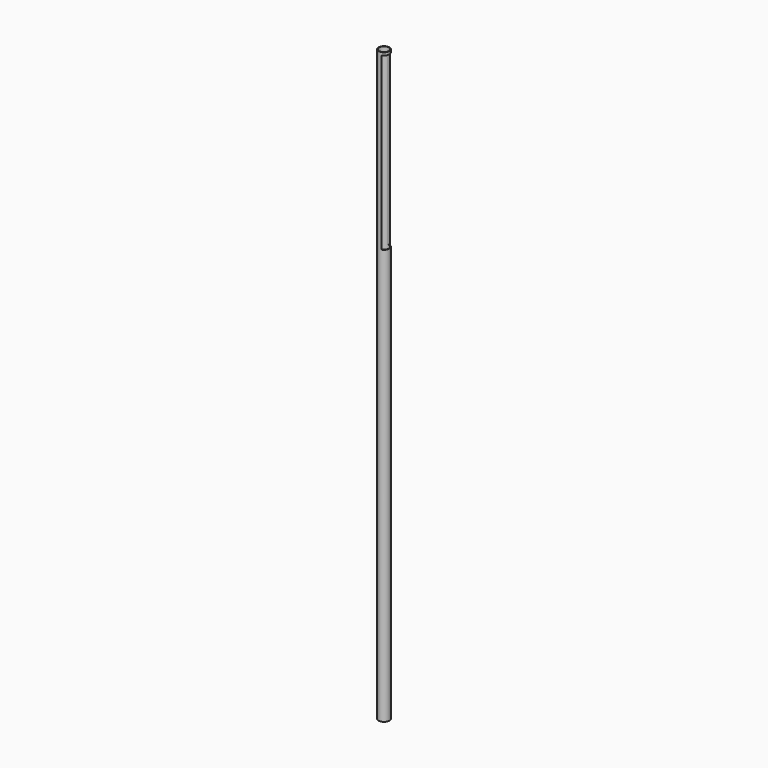
from build123d import *

# Parameters (mm, degrees)
F0_R     = 54.543223
F1_DEPTH = 6000
F2_T     = -5
F3_W     = 103.515356
F3_H     = 1741.023063
F4_DEPTH = 772.16


with BuildPart() as f1:
    # F0 (on Top) → F1 (new body)
    with BuildSketch(Plane.XY):
        Circle(F0_R)
    extrude(amount=F1_DEPTH)

    # F2
    f2_openings = [f1.faces().sort_by_distance(p)[0] for p in [
        (0, 0, 6000),
        (0, 0, 0),
    ]]
    offset(amount=F2_T, openings=f2_openings)

    # F3 (on Right) → F4 (cut)
    with BuildSketch(Plane.YZ):
        with Locations((0, 5100.913524)):
            Rectangle(F3_W, F3_H)
    extrude(amount=F4_DEPTH, mode=Mode.SUBTRACT)


solid = f1.part
